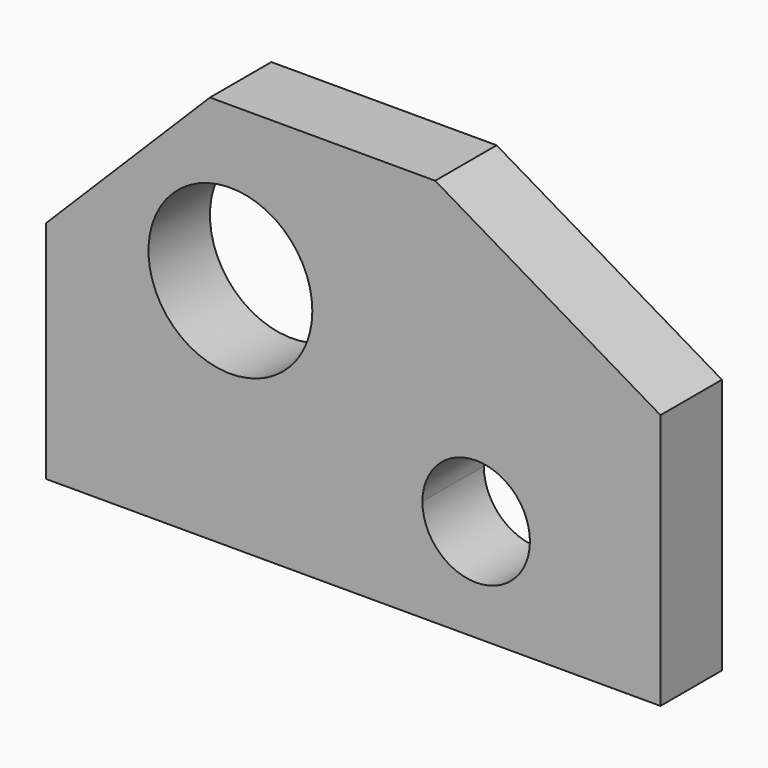
from build123d import *

# Parameters (mm, degrees)
F0_R     = 32
F1_DEPTH = 30


with BuildPart() as f1:
    # F0 (on Front) → F1 (new body)
    with BuildSketch(Plane.XZ):
        with BuildLine():
            Line((-123.021963, 29.088755), (-123.021963, -58.911245))
            Line((-123.021963, -58.911245), (-14.377067, -58.911245))
            Line((-14.377067, -58.911245), (-14.377067, -18.911245))
            Line((-14.377067, -18.911245), (23.978037, -18.911245))
            ThreePointArc((23.978037, -18.911245), (30.128795, -4.062003), (44.978037, 2.088755))
            Line((44.978037, 2.088755), (44.978037, 32.678131))
            Line((44.978037, 32.678131), (116.978037, 32.678131))
            Line((116.978037, 32.678131), (116.978037, 41.088755))
            Line((116.978037, 41.088755), (28.978037, 93.088755))
            Line((28.978037, 93.088755), (-59.021963, 93.088755))
            Line((-59.021963, 93.088755), (-123.021963, 29.088755))
        make_face()
        with Locations((-51.021963, 32.678131)):
            Circle(F0_R, mode=Mode.SUBTRACT)
        with BuildLine():
            Line((-14.377067, -18.911245), (-14.377067, -58.911245))
            Line((-14.377067, -58.911245), (116.978037, -58.911245))
            Line((116.978037, -58.911245), (116.978037, 32.678131))
            Line((116.978037, 32.678131), (44.978037, 32.678131))
            Line((44.978037, 32.678131), (44.978037, 2.088755))
            ThreePointArc((44.978037, 2.088755), (59.827279, -4.062003), (65.978037, -18.911245))
            ThreePointArc((65.978037, -18.911245), (44.978037, -39.911245), (23.978037, -18.911245))
            Line((23.978037, -18.911245), (-14.377067, -18.911245))
        make_face()
    extrude(amount=F1_DEPTH)


solid = f1.part
